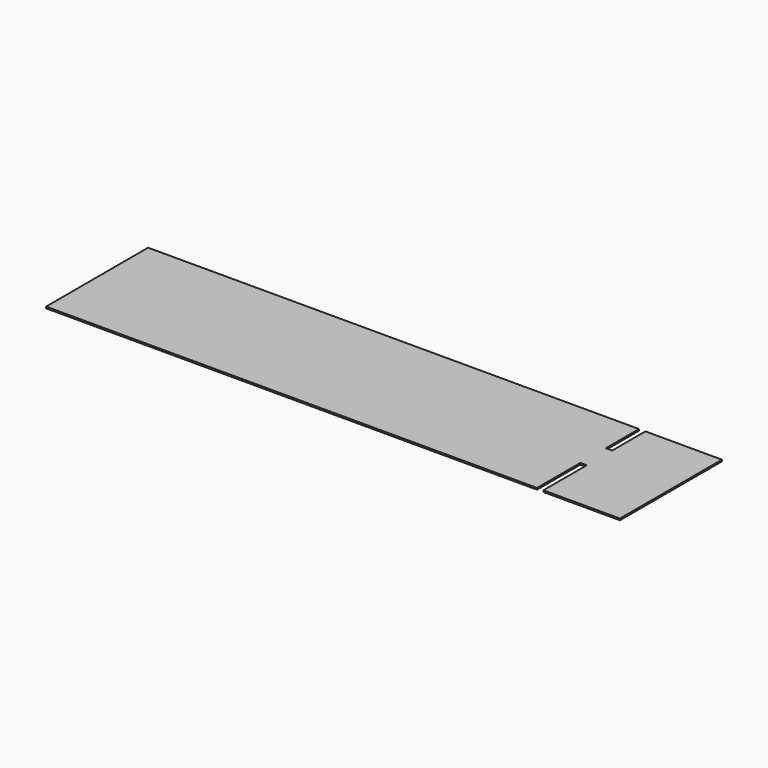
from build123d import *

# Parameters (mm, degrees)
F0_W     = 9000
F0_H     = 2000
F1_DEPTH = 25
F2_W     = 100
F2_H     = 650
F2_H_2   = 850
F3_DEPTH = 25.001


with BuildPart() as f1:
    # F0 (on Top) → F1 (new body)
    with BuildSketch(Plane.XY):
        with Locations((4500, 1000)):
            Rectangle(F0_W, F0_H)
    extrude(amount=F1_DEPTH)

    # F2 (on face) → F3 (cut, through all)
    with BuildSketch(Plane.XY.offset(25)):
        with Locations((7750, 1675)):
            Rectangle(F2_W, F2_H)
        with Locations((7750, 425)):
            Rectangle(F2_W, F2_H_2)
    extrude(amount=-F3_DEPTH, mode=Mode.SUBTRACT)


solid = f1.part
